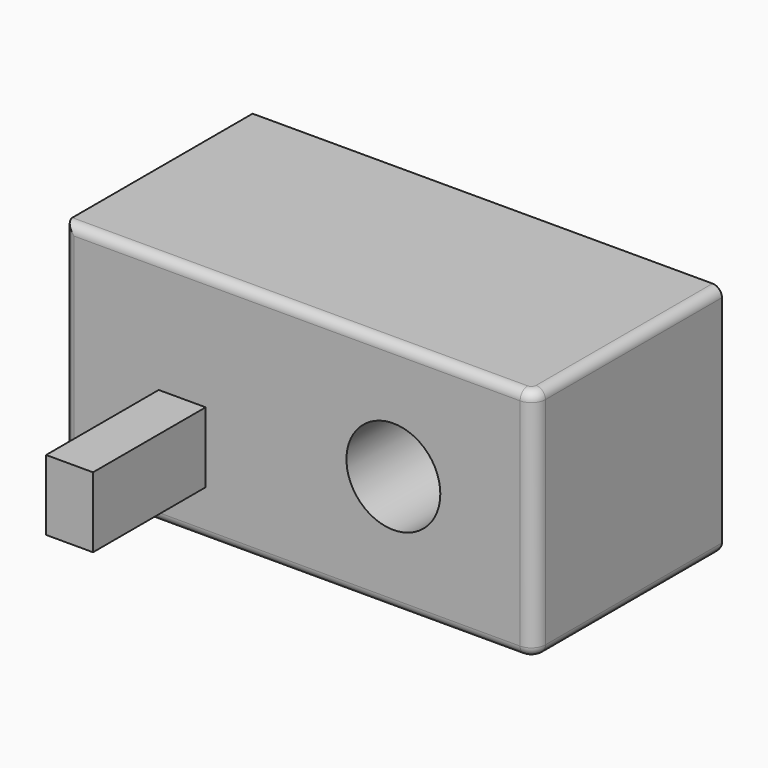
from build123d import *

# Parameters (mm, degrees)
F0_W     = 254
F0_H     = 127
F0_R     = 25.4
F1_DEPTH = 127
F2_W     = 25.4
F2_H     = 38.1
F3_DEPTH = 76.2
F4_R     = 7.62
F5_R     = 5.08


with BuildPart() as f1:
    # F0 (on Front) → F1 (new body)
    with BuildSketch(Plane.XZ):
        with Locations((127, 63.5)):
            Rectangle(F0_W, F0_H)
        with Locations((177.8, 63.5)):
            Circle(F0_R, mode=Mode.SUBTRACT)
    extrude(amount=F1_DEPTH)

    # F2 (on face) → F3 (join)
    with BuildSketch(Plane.XZ.offset(127)):
        with Locations((63.5, 44.45)):
            Rectangle(F2_W, F2_H)
    extrude(amount=F3_DEPTH)

    # F4
    f4_edges = [f1.edges().sort_by_distance(p)[0] for p in [
        (254, -127, 63.5),
    ]]
    fillet(f4_edges, radius=F4_R)

    # F5
    f5_edges = [f1.edges().sort_by_distance(p)[0] for p in [
        (254, -59.69, 0),
        (251.768154, -124.768154, 0),
        (127, 0, 0),
        (123.19, -127, 0),
        (0, -63.5, 0),
        (0, -127, 63.5),
        (123.19, -127, 127),
    ]]
    fillet(f5_edges, radius=F5_R)


solid = f1.part
